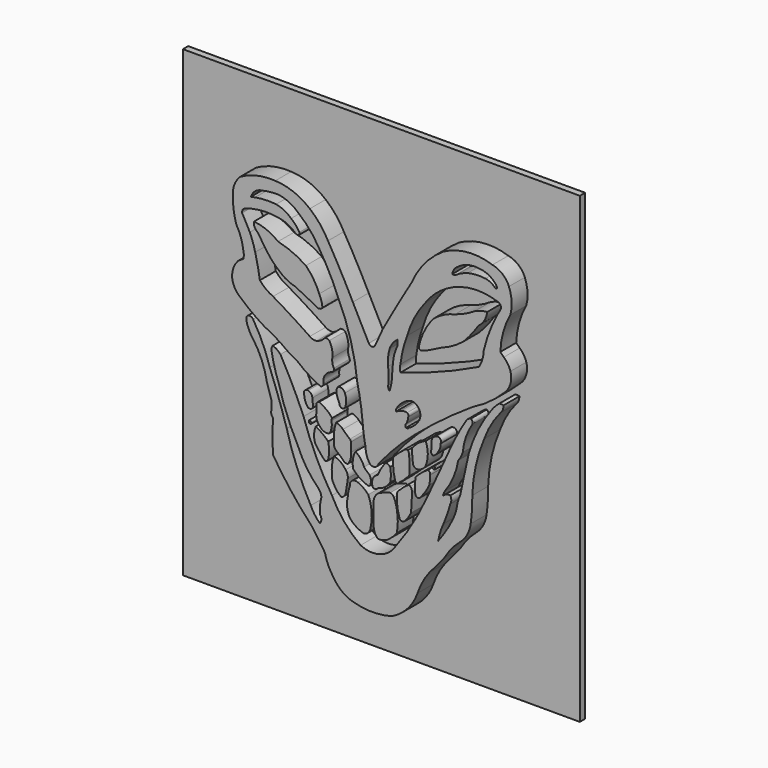
from build123d import *

# Parameters (mm, degrees)
F1_DEPTH  = 10.16
F3_DEPTH  = 10.16
F5_DEPTH  = 10.16
F7_DEPTH  = 10.16
F9_DEPTH  = 10.16
F10_W     = 152.4
F10_H     = 177.8
F11_DEPTH = 2.54


with BuildPart() as f1:
    # F0 (on Front) → F1 (new body)
    with BuildSketch(Plane.XZ):
        with BuildLine():
            ThreePointArc((-46.616811, 7.326748), (-43.414971, 1.408083), (-41.53445, -5.053033))
            ThreePointArc((-41.53445, -5.053033), (-40.690623, -7.783731), (-39.841134, -10.512672))
            ThreePointArc((-39.841134, -10.512672), (-39.629449, -12.579481), (-39.841134, -14.646289))
            ThreePointArc((-39.841134, -14.646289), (-39.701651, -15.70855), (-39.122015, -16.609592))
            ThreePointArc((-39.122015, -16.609592), (-39.341498, -22.900259), (-39.122015, -29.190926))
            ThreePointArc((-39.122015, -29.190926), (-38.026657, -30.758344), (-37.001099, -32.372296))
            ThreePointArc((-37.001099, -32.372296), (-31.045274, -40.544364), (-24.411138, -48.176061))
            ThreePointArc((-24.411138, -48.176061), (-21.734883, -51.905246), (-19.185096, -55.722017))
            ThreePointArc((-19.185096, -55.722017), (-17.924181, -59.539432), (-15.892215, -63.00839))
            ThreePointArc((-15.892215, -63.00839), (-12.616166, -66.681061), (-8.185472, -68.823479))
            ThreePointArc((-8.185472, -68.823479), (-0.899098, -69.818992), (6.387277, -68.823479))
            ThreePointArc((6.387277, -68.823479), (12.466032, -64.322554), (16.335981, -57.823855))
            ThreePointArc((16.335981, -57.823855), (18.244665, -53.387296), (20.889966, -49.34644))
            ThreePointArc((20.889966, -49.34644), (23.796187, -45.914503), (26.657285, -42.444859))
            ThreePointArc((26.657285, -42.444859), (29.349648, -38.601307), (32.612495, -35.228543))
            ThreePointArc((32.612495, -35.228543), (35.396199, -31.875562), (36.746111, -27.731985))
            ThreePointArc((36.746111, -27.731985), (37.248525, -22.858031), (37.356205, -17.959435))
            ThreePointArc((37.356205, -17.959435), (38.704285, -7.398577), (41.968558, 2.735207))
            ThreePointArc((41.968558, 2.735207), (44.59788, 8.392635), (48.200831, 13.485628))
            ThreePointArc((48.200831, 13.485628), (49.074294, 14.801159), (49.315508, 16.361728))
            ThreePointArc((49.315508, 16.361728), (48.44906, 16.556494), (47.582611, 16.361728))
            ThreePointArc((47.582611, 16.361728), (45.987344, 14.84018), (44.602081, 13.125236))
            ThreePointArc((44.602081, 13.125236), (39.526042, 4.843767), (36.018215, -4.21405))
            ThreePointArc((36.018215, -4.21405), (34.336527, -11.816835), (32.712549, -19.432155))
            ThreePointArc((32.712549, -19.432155), (31.905913, -21.467996), (31.47535, -23.61507))
            ThreePointArc((31.47535, -23.61507), (30.909487, -25.927252), (30.061407, -28.151471))
            ThreePointArc((30.061407, -28.151471), (27.43108, -32.993235), (24.287807, -37.518844))
            ThreePointArc((24.287807, -37.518844), (25.071217, -34.270518), (26.289392, -31.159023))
            ThreePointArc((26.289392, -31.159023), (27.715604, -27.428171), (28.916443, -23.618799))
            ThreePointArc((28.916443, -23.618799), (29.302992, -22.158041), (28.916443, -20.697283))
            ThreePointArc((28.916443, -20.697283), (27.276139, -20.920357), (25.968764, -21.935804))
            ThreePointArc((25.968764, -21.935804), (26.352772, -20.881558), (26.84702, -19.874277))
            ThreePointArc((26.84702, -19.874277), (30.119019, -14.189168), (31.961493, -7.893794))
            ThreePointArc((31.961493, -7.893794), (32.986264, -6.289929), (33.713028, -4.530852))
            ThreePointArc((33.713028, -4.530852), (34.93871, 1.09739), (37.496336, 6.258588))
            ThreePointArc((37.496336, 6.258588), (37.393004, 7.141522), (36.795724, 7.799936))
            ThreePointArc((36.795724, 7.799936), (35.632934, 7.260812), (34.834009, 6.258588))
            ThreePointArc((34.834009, 6.258588), (31.934709, 1.274117), (29.352581, -3.881804))
            ThreePointArc((29.352581, -3.881804), (24.575526, -14.34699), (19.756366, -24.792854))
            ThreePointArc((19.756366, -24.792854), (14.210558, -35.365791), (7.528531, -45.259904))
            ThreePointArc((7.528531, -45.259904), (1.64577, -49.415981), (-5.523933, -48.726629))
            ThreePointArc((-5.523933, -48.726629), (-11.844614, -42.76878), (-16.521996, -35.449691))
            ThreePointArc((-16.521996, -35.449691), (-22.665055, -24.21065), (-27.398281, -12.308978))
            ThreePointArc((-27.398281, -12.308978), (-31.596418, -3.141189), (-36.293756, 5.781127))
            ThreePointArc((-36.293756, 5.781127), (-37.622609, 6.979402), (-39.216664, 7.792238))
            ThreePointArc((-39.216664, 7.792238), (-39.69417, 6.843238), (-39.671052, 5.781127))
            ThreePointArc((-39.671052, 5.781127), (-38.604466, 0.888574), (-37.078824, -3.880818))
            ThreePointArc((-37.078824, -3.880818), (-33.771529, -13.844329), (-29.37901, -23.379292))
            ThreePointArc((-29.37901, -23.379292), (-26.335147, -29.12476), (-22.245131, -34.179192))
            ThreePointArc((-22.245131, -34.179192), (-21.095668, -35.599902), (-20.568867, -37.349805))
            ThreePointArc((-20.568867, -37.349805), (-21.095959, -40.299182), (-21.155234, -43.294702))
            ThreePointArc((-21.155234, -43.294702), (-20.568867, -44.82571), (-21.155234, -46.356719))
            ThreePointArc((-21.155234, -46.356719), (-23.161061, -44.106117), (-24.640854, -41.479569))
            ThreePointArc((-24.640854, -41.479569), (-29.974169, -30.279418), (-33.869248, -18.501643))
            ThreePointArc((-33.869248, -18.501643), (-36.947498, -9.190712), (-40.368006, 0))
            ThreePointArc((-40.368006, 0), (-43.098874, 7.335847), (-46.783447, 14.242091))
            ThreePointArc((-46.783447, 14.242091), (-48.074866, 14.95961), (-49.366284, 14.242091))
            ThreePointArc((-49.366284, 14.242091), (-49.179819, 12.2608), (-48.449792, 10.409491))
            ThreePointArc((-48.449792, 10.409491), (-47.674818, 8.783975), (-46.616811, 7.326748))
        make_face()
    extrude(amount=F1_DEPTH)


with BuildPart() as f3:
    # F2 (on Front) → F3 (new body)
    with BuildSketch(Plane.XZ):
        with BuildLine():
            ThreePointArc((-23.810601, -7.260321), (-23.95032, -6.113737), (-24.046259, -4.962664))
            ThreePointArc((-24.046259, -4.962664), (-24.523351, -3.708392), (-25.636945, -2.959578))
            ThreePointArc((-25.636945, -2.959578), (-27.006112, -3.45635), (-27.168715, -4.903749))
            ThreePointArc((-27.168715, -4.903749), (-26.718324, -6.972207), (-25.636945, -8.792093))
            ThreePointArc((-25.636945, -8.792093), (-24.225938, -8.61978), (-23.810601, -7.260321))
        make_face()
        with BuildLine():
            ThreePointArc((-16.713239, -10.322983), (-16.635475, -9.78762), (-16.418668, -9.291983))
            ThreePointArc((-16.418668, -9.291983), (-18.706958, -7.086722), (-21.455839, -5.492011))
            ThreePointArc((-21.455839, -5.492011), (-22.191305, -5.854334), (-22.422816, -6.64084))
            ThreePointArc((-22.422816, -6.64084), (-22.525091, -7.892769), (-22.422816, -9.144697))
            ThreePointArc((-22.422816, -9.144697), (-22.372357, -11.555011), (-21.13181, -13.622183))
            ThreePointArc((-21.13181, -13.622183), (-19.547393, -14.857954), (-17.538039, -14.859384))
            ThreePointArc((-17.538039, -14.859384), (-16.660454, -12.675763), (-16.713239, -10.322983))
        make_face()
        with BuildLine():
            ThreePointArc((-11.54621, 0.750697), (-12.568938, 1.925524), (-14.122333, 2.040219))
            ThreePointArc((-14.122333, 2.040219), (-14.742571, 0.852946), (-14.766364, -0.486363))
            ThreePointArc((-14.766364, -0.486363), (-14.266206, -2.047933), (-13.626925, -3.557893))
            ThreePointArc((-13.626925, -3.557893), (-12.87375, -4.703389), (-11.54621, -4.361233))
            ThreePointArc((-11.54621, -4.361233), (-11.054436, -1.805268), (-11.54621, 0.750697))
        make_face()
        with BuildLine():
            ThreePointArc((-9.635364, -14.211565), (-10.986316, -13.021796), (-12.303531, -11.794781))
            ThreePointArc((-12.303531, -11.794781), (-13.478395, -10.823535), (-14.925217, -10.343609))
            ThreePointArc((-14.925217, -10.343609), (-15.731899, -13.993009), (-15.705908, -17.730413))
            ThreePointArc((-15.705908, -17.730413), (-15.563664, -18.827141), (-14.925217, -19.730153))
            ThreePointArc((-14.925217, -19.730153), (-13.450856, -20.985244), (-12.050516, -22.32242))
            ThreePointArc((-12.050516, -22.32242), (-11.298697, -22.817845), (-10.398827, -22.787647))
            ThreePointArc((-10.398827, -22.787647), (-9.382345, -20.816292), (-9.274041, -18.600948))
            ThreePointArc((-9.274041, -18.600948), (-9.252902, -16.843673), (-9.274041, -15.086398))
            ThreePointArc((-9.274041, -15.086398), (-9.337758, -14.600681), (-9.635364, -14.211565))
        make_face()
        with BuildLine():
            ThreePointArc((-17.967103, -23.834724), (-17.601376, -20.782568), (-17.967103, -17.730413))
            ThreePointArc((-17.967103, -17.730413), (-20.190948, -15.737459), (-22.757852, -14.211565))
            ThreePointArc((-22.757852, -14.211565), (-23.366999, -16.946375), (-23.049464, -19.730153))
            ThreePointArc((-23.049464, -19.730153), (-21.305801, -22.238573), (-19.300181, -24.542922))
            ThreePointArc((-19.300181, -24.542922), (-18.459389, -24.516829), (-17.967103, -23.834724))
        make_face()
        with BuildLine():
            ThreePointArc((-24.649439, -14.006637), (-24.479287, -13.732363), (-24.448013, -13.411116))
            ThreePointArc((-24.448013, -13.411116), (-24.752532, -12.961687), (-25.288749, -12.876899))
            ThreePointArc((-25.288749, -12.876899), (-25.417721, -13.31175), (-25.279991, -13.743907))
            ThreePointArc((-25.279991, -13.743907), (-25.014138, -13.993886), (-24.649439, -14.006637))
        make_face()
        with BuildLine():
            ThreePointArc((-11.278415, -25.120154), (-13.173023, -23.091111), (-15.705908, -21.954867))
            ThreePointArc((-15.705908, -21.954867), (-16.484132, -25.132295), (-16.52251, -28.403413))
            ThreePointArc((-16.52251, -28.403413), (-16.39663, -30.031382), (-15.705908, -31.510919))
            ThreePointArc((-15.705908, -31.510919), (-14.524117, -33.351033), (-12.913262, -34.830153))
            ThreePointArc((-12.913262, -34.830153), (-11.872218, -34.17403), (-11.278415, -33.096224))
            ThreePointArc((-11.278415, -33.096224), (-10.807505, -30.383716), (-10.398827, -27.661137))
            ThreePointArc((-10.398827, -27.661137), (-10.593774, -26.305889), (-11.278415, -25.120154))
        make_face()
        with BuildLine():
            ThreePointArc((-2.069898, -23.834724), (-3.190877, -22.910191), (-4.200154, -21.864861))
            ThreePointArc((-4.200154, -21.864861), (-5.474877, -19.488635), (-7.519388, -17.730413))
            ThreePointArc((-7.519388, -17.730413), (-8.472035, -20.709232), (-8.361582, -23.834724))
            ThreePointArc((-8.361582, -23.834724), (-5.751909, -26.184899), (-2.565306, -27.661137))
            ThreePointArc((-2.565306, -27.661137), (-1.952161, -27.396649), (-1.723112, -26.769403))
            ThreePointArc((-1.723112, -26.769403), (-1.58463, -25.26521), (-2.069898, -23.834724))
        make_face()
        with BuildLine():
            ThreePointArc((-2.565306, -30.642418), (-4.355775, -29.02894), (-6.463438, -27.859821))
            ThreePointArc((-6.463438, -27.859821), (-8.777094, -27.998917), (-9.635364, -30.151989))
            ThreePointArc((-9.635364, -30.151989), (-10.186757, -31.973731), (-10.398827, -33.865239))
            ThreePointArc((-10.398827, -33.865239), (-10.688488, -37.441465), (-9.635364, -40.871367))
            ThreePointArc((-9.635364, -40.871367), (-7.183965, -43.035935), (-4.200154, -44.374432))
            ThreePointArc((-4.200154, -44.374432), (-2.500173, -43.426573), (-1.723112, -41.642044))
            ThreePointArc((-1.723112, -41.642044), (-1.272645, -36.075499), (-2.565306, -30.642418))
        make_face()
        with BuildLine():
            ThreePointArc((5.844937, -27.286772), (4.118743, -27.733844), (2.466079, -28.403413))
            ThreePointArc((2.466079, -28.403413), (0.462002, -29.734239), (-0.490115, -31.943515))
            ThreePointArc((-0.490115, -31.943515), (-0.675486, -36.032153), (-0.490115, -40.120792))
            ThreePointArc((-0.490115, -40.120792), (-0.163239, -42.425445), (1.109444, -44.374432))
            ThreePointArc((1.109444, -44.374432), (3.66202, -44.043642), (5.844937, -42.679846))
            ThreePointArc((5.844937, -42.679846), (7.196454, -41.490845), (8.364048, -40.120792))
            ThreePointArc((8.364048, -40.120792), (8.755528, -37.015291), (8.600593, -33.889049))
            ThreePointArc((8.600593, -33.889049), (8.201929, -31.08289), (7.27788, -28.403413))
            ThreePointArc((7.27788, -28.403413), (6.707481, -27.657643), (5.844937, -27.286772))
        make_face()
        with BuildLine():
            ThreePointArc((4.180975, -17.730413), (2.423605, -20.124438), (1.109444, -22.787647))
            ThreePointArc((1.109444, -22.787647), (0.006275, -23.491651), (-0.773106, -24.542922))
            ThreePointArc((-0.773106, -24.542922), (-1.125744, -26.216519), (-0.651572, -27.859821))
            ThreePointArc((-0.651572, -27.859821), (0.311152, -27.825951), (1.109444, -27.286772))
            ThreePointArc((1.109444, -27.286772), (3.818524, -26.028986), (5.844937, -23.834724))
            ThreePointArc((5.844937, -23.834724), (6.090244, -21.217836), (5.844937, -18.600948))
            ThreePointArc((5.844937, -18.600948), (5.10663, -17.986631), (4.180975, -17.730413))
        make_face()
        with BuildLine():
            ThreePointArc((10.955352, -23.801824), (10.377715, -24.333135), (9.831075, -24.896286))
            ThreePointArc((9.831075, -24.896286), (8.889597, -25.766056), (8.364048, -26.935105))
            ThreePointArc((8.364048, -26.935105), (8.574286, -30.927057), (9.437837, -34.830153))
            ThreePointArc((9.437837, -34.830153), (10.416789, -35.465048), (11.492074, -35.012059))
            ThreePointArc((11.492074, -35.012059), (12.798406, -33.355508), (13.822199, -31.510919))
            ThreePointArc((13.822199, -31.510919), (14.061139, -28.02988), (14.187039, -24.542922))
            ThreePointArc((14.187039, -24.542922), (14.091513, -23.513221), (13.57985, -22.61455))
            ThreePointArc((13.57985, -22.61455), (13.09036, -22.413813), (12.600871, -22.61455))
            ThreePointArc((12.600871, -22.61455), (11.722315, -23.130855), (10.955352, -23.801824))
        make_face()
        with BuildLine():
            ThreePointArc((10.955352, -11.299484), (8.873171, -13.016886), (6.996622, -14.956862))
            ThreePointArc((6.996622, -14.956862), (7.037665, -18.820356), (7.767296, -22.61455))
            ThreePointArc((7.767296, -22.61455), (8.573001, -23.255719), (9.378706, -22.61455))
            ThreePointArc((9.378706, -22.61455), (10.690149, -21.595056), (11.865882, -20.421643))
            ThreePointArc((11.865882, -20.421643), (12.50473, -19.888302), (13.126986, -19.335693))
            ThreePointArc((13.126986, -19.335693), (13.372671, -16.007781), (13.126986, -12.679869))
            ThreePointArc((13.126986, -12.679869), (13.052196, -11.647623), (12.600871, -10.716262))
            ThreePointArc((12.600871, -10.716262), (11.686704, -10.749974), (10.955352, -11.299484))
        make_face()
        with BuildLine():
            ThreePointArc((20.266585, -14.909432), (17.807242, -16.660428), (15.641181, -18.76341))
            ThreePointArc((15.641181, -18.76341), (15.319981, -21.580037), (15.467788, -24.411064))
            ThreePointArc((15.467788, -24.411064), (15.821237, -25.189375), (16.52771, -25.670612))
            ThreePointArc((16.52771, -25.670612), (17.466819, -25.098751), (18.113017, -24.209157))
            ThreePointArc((18.113017, -24.209157), (19.655649, -22.079902), (20.855729, -19.740405))
            ThreePointArc((20.855729, -19.740405), (21.10362, -18.070453), (21.120843, -16.38229))
            ThreePointArc((21.120843, -16.38229), (21.069674, -15.427804), (20.266585, -14.909432))
        make_face()
        with BuildLine():
            ThreePointArc((19.49119, -13.724447), (20.284871, -9.538248), (19.49119, -5.352049))
            ThreePointArc((19.49119, -5.352049), (16.608692, -7.022631), (14.289403, -9.414396))
            ThreePointArc((14.289403, -9.414396), (14.304265, -11.822744), (14.537108, -14.219856))
            ThreePointArc((14.537108, -14.219856), (14.944215, -15.362307), (15.973791, -16.003326))
            ThreePointArc((15.973791, -16.003326), (18.010249, -15.2926), (19.49119, -13.724447))
        make_face()
        with BuildLine():
            ThreePointArc((25.188385, -4.361233), (25.143596, -2.916268), (23.801241, -2.3796))
            ThreePointArc((23.801241, -2.3796), (22.297603, -3.305047), (21.670986, -4.955723))
            ThreePointArc((21.670986, -4.955723), (21.703799, -6.268554), (21.670986, -7.581386))
            ThreePointArc((21.670986, -7.581386), (21.572822, -8.575996), (22.116853, -9.414396))
            ThreePointArc((22.116853, -9.414396), (23.337268, -8.724862), (24.148026, -7.581386))
            ThreePointArc((24.148026, -7.581386), (24.976808, -6.071012), (25.188385, -4.361233))
        make_face()
        with BuildLine():
            ThreePointArc((22.598976, -12.860881), (22.40402, -13.058777), (22.351271, -13.331519))
            ThreePointArc((22.351271, -13.331519), (22.181198, -13.396517), (22.116853, -13.566838))
            ThreePointArc((22.116853, -13.566838), (22.175502, -13.745558), (22.338569, -13.839312))
            ThreePointArc((22.338569, -13.839312), (22.689963, -13.947274), (23.041357, -13.839312))
            ThreePointArc((23.041357, -13.839312), (23.109927, -13.480141), (23.041357, -13.120971))
            ThreePointArc((23.041357, -13.120971), (22.895207, -12.863291), (22.598976, -12.860881))
        make_face()
    extrude(amount=F3_DEPTH)


with BuildPart() as f5:
    # F4 (on Front) → F5 (new body)
    with BuildSketch(Plane.XZ):
        with BuildLine():
            ThreePointArc((-33.577297, 7.798562), (-31.830519, 6.671585), (-29.980671, 5.723235))
            ThreePointArc((-29.980671, 5.723235), (-25.689435, 2.534743), (-20.98239, 0))
            ThreePointArc((-20.98239, 0), (-20.092174, 0.415783), (-19.796997, 1.352922))
            ThreePointArc((-19.796997, 1.352922), (-19.228131, 4.196907), (-16.994545, 6.047029))
            ThreePointArc((-16.994545, 6.047029), (-15.985729, 6.641754), (-15.803503, 7.798562))
            ThreePointArc((-15.803503, 7.798562), (-16.360814, 9.442114), (-16.369015, 11.177565))
            ThreePointArc((-16.369015, 11.177565), (-16.501823, 13.963162), (-17.536847, 16.552741))
            ThreePointArc((-17.536847, 16.552741), (-18.356108, 16.942169), (-19.261681, 16.889442))
            ThreePointArc((-19.261681, 16.889442), (-20.693971, 15.579053), (-22.470962, 14.797465))
            ThreePointArc((-22.470962, 14.797465), (-23.800809, 14.932438), (-25.007609, 15.507191))
            ThreePointArc((-25.007609, 15.507191), (-31.99114, 20.086255), (-39.126743, 24.42454))
            ThreePointArc((-39.126743, 24.42454), (-41.864056, 26.062612), (-44.178359, 28.258098))
            ThreePointArc((-44.178359, 28.258098), (-44.98208, 32.719238), (-45.983713, 37.14015))
            ThreePointArc((-45.983713, 37.14015), (-46.86454, 40.238894), (-48.04761, 43.235295))
            ThreePointArc((-48.04761, 43.235295), (-49.479269, 46.026179), (-50.993323, 48.773237))
            ThreePointArc((-50.993323, 48.773237), (-50.766009, 49.942009), (-49.815036, 50.658494))
            ThreePointArc((-49.815036, 50.658494), (-43.401841, 52.031181), (-36.853895, 51.660039))
            ThreePointArc((-36.853895, 51.660039), (-33.571901, 50.680284), (-30.726805, 48.773237))
            ThreePointArc((-30.726805, 48.773237), (-30.097961, 48.353823), (-29.344518, 48.293184))
            ThreePointArc((-29.344518, 48.293184), (-29.000431, 48.792784), (-29.052908, 49.397137))
            ThreePointArc((-29.052908, 49.397137), (-30.430811, 51.381134), (-32.188147, 53.038429))
            ThreePointArc((-32.188147, 53.038429), (-34.854702, 54.913844), (-37.937049, 55.975366))
            ThreePointArc((-37.937049, 55.975366), (-41.9711, 56.109697), (-45.983713, 55.673186))
            ThreePointArc((-45.983713, 55.673186), (-46.788114, 55.504433), (-47.600791, 55.381577))
            ThreePointArc((-47.600791, 55.381577), (-45.979003, 57.766748), (-43.309946, 58.860078))
            ThreePointArc((-43.309946, 58.860078), (-40.104323, 59.406536), (-36.853895, 59.50325))
            ThreePointArc((-36.853895, 59.50325), (-32.851524, 58.238727), (-29.422982, 55.817347))
            ThreePointArc((-29.422982, 55.817347), (-25.266821, 51.842862), (-21.898925, 47.181588))
            ThreePointArc((-21.898925, 47.181588), (-17.575294, 39.68257), (-13.958272, 31.818334))
            ThreePointArc((-13.958272, 31.818334), (-9.289748, 19.235203), (-6.800537, 6.046793))
            ThreePointArc((-6.800537, 6.046793), (-5.58557, -0.189252), (-4.77694, -6.49088))
            ThreePointArc((-4.77694, -6.49088), (-4.334417, -10.772595), (-3.58796, -15.011901))
            ThreePointArc((-3.58796, -15.011901), (-3.122312, -17.782273), (-1.804491, -20.263227))
            ThreePointArc((-1.804491, -20.263227), (0.092232, -20.43732), (1.326836, -18.986935))
            ThreePointArc((1.326836, -18.986935), (7.940292, -11.467256), (15.247806, -4.620098))
            ThreePointArc((15.247806, -4.620098), (26.089974, 4.053449), (37.479948, 11.993947))
            ThreePointArc((37.479948, 11.993947), (44.096808, 16.019434), (49.954318, 21.086678))
            ThreePointArc((49.954318, 21.086678), (52.030725, 24.656882), (52.013531, 28.786957))
            ThreePointArc((52.013531, 28.786957), (50.995458, 30.920333), (49.470048, 32.726128))
            ThreePointArc((49.470048, 32.726128), (48.763115, 33.356797), (48.132446, 34.06373))
            ThreePointArc((48.132446, 34.06373), (49.246898, 41.213782), (52.013531, 47.900409))
            ThreePointArc((52.013531, 47.900409), (52.449221, 52.613527), (51.426195, 57.234861))
            ThreePointArc((51.426195, 57.234861), (48.934834, 60.677782), (45.089521, 62.487245))
            ThreePointArc((45.089521, 62.487245), (35.435875, 63.646658), (26.148733, 60.768098))
            ThreePointArc((26.148733, 60.768098), (19.080059, 54.528285), (14.124616, 46.506751))
            ThreePointArc((14.124616, 46.506751), (8.43329, 36.781042), (2.9309, 26.947206))
            ThreePointArc((2.9309, 26.947206), (1.492464, 23.753392), (0, 20.584464))
            ThreePointArc((0, 20.584464), (-1.185693, 19.820209), (-2.371386, 20.584464))
            ThreePointArc((-2.371386, 20.584464), (-5.4462, 26.522207), (-8.490247, 32.475781))
            ThreePointArc((-8.490247, 32.475781), (-13.112363, 41.361434), (-18.036721, 50.083216))
            ThreePointArc((-18.036721, 50.083216), (-21.096144, 54.722502), (-25.012275, 58.665466))
            ThreePointArc((-25.012275, 58.665466), (-31.212391, 62.334468), (-38.267992, 63.791007))
            ThreePointArc((-38.267992, 63.791007), (-45.221855, 63.282785), (-51.724996, 60.768098))
            ThreePointArc((-51.724996, 60.768098), (-54.06501, 57.110463), (-54.501384, 52.790333))
            ThreePointArc((-54.501384, 52.790333), (-54.204502, 48.334228), (-53.164501, 43.991026))
            ThreePointArc((-53.164501, 43.991026), (-51.427767, 40.296899), (-50.557259, 36.308788))
            ThreePointArc((-50.557259, 36.308788), (-50.334464, 34.813894), (-50.557259, 33.319))
            ThreePointArc((-50.557259, 33.319), (-51.593478, 32.758269), (-52.549202, 32.06924))
            ThreePointArc((-52.549202, 32.06924), (-54.318403, 29.154039), (-54.828074, 25.782287))
            ThreePointArc((-54.828074, 25.782287), (-53.880201, 22.604505), (-51.724996, 20.084215))
            ThreePointArc((-51.724996, 20.084215), (-47.258545, 16.408863), (-42.447016, 13.198476))
            ThreePointArc((-42.447016, 13.198476), (-37.864898, 10.7404), (-33.577297, 7.798562))
        make_face()
    extrude(amount=F5_DEPTH)

    # F6 (on Front) → F7 (cut)
    with BuildSketch(Plane.XZ):
        with BuildLine():
            ThreePointArc((6.895083, 16.682304), (7.428214, 20.010665), (8.600492, 23.171041))
            ThreePointArc((8.600492, 23.171041), (8.66925, 24.264198), (8.600492, 25.357354))
            ThreePointArc((8.600492, 25.357354), (6.796473, 23.565403), (5.62918, 21.30642))
            ThreePointArc((5.62918, 21.30642), (5.038501, 18.292123), (5.083658, 15.220829))
            ThreePointArc((5.083658, 15.220829), (5.138242, 11.669779), (5.083658, 8.118729))
            ThreePointArc((5.083658, 8.118729), (5.257329, 7.552245), (5.62918, 7.090951))
            ThreePointArc((5.62918, 7.090951), (6.301204, 9.7787), (6.555425, 12.537501))
            ThreePointArc((6.555425, 12.537501), (6.70887, 14.611245), (6.895083, 16.682304))
        make_face()
        with BuildLine():
            ThreePointArc((16.98433, 4.482063), (15.680129, 5.89678), (13.823209, 6.400978))
            ThreePointArc((13.823209, 6.400978), (10.470396, 4.626513), (8.080207, 1.680824))
            ThreePointArc((8.080207, 1.680824), (7.983899, 1.310055), (8.184467, 0.983685))
            ThreePointArc((8.184467, 0.983685), (8.984332, 1.308577), (9.782409, 1.637839))
            ThreePointArc((9.782409, 1.637839), (11.035197, 1.982451), (12.329202, 1.865042))
            ThreePointArc((12.329202, 1.865042), (12.837363, 1.300692), (12.775725, 0.543778))
            ThreePointArc((12.775725, 0.543778), (12.557535, -0.629976), (12.141926, -1.749161))
            ThreePointArc((12.141926, -1.749161), (11.712619, -2.516149), (11.883419, -3.378356))
            ThreePointArc((11.883419, -3.378356), (12.585539, -3.328187), (13.166233, -2.930338))
            ThreePointArc((13.166233, -2.930338), (15.346818, -1.341748), (16.98433, 0.802342))
            ThreePointArc((16.98433, 0.802342), (17.423637, 2.642203), (16.98433, 4.482063))
        make_face()
        with BuildLine():
            ThreePointArc((9.782409, 17.450158), (9.570098, 16.026158), (9.782409, 14.602159))
            ThreePointArc((9.782409, 14.602159), (25.097331, 19.845413), (39.929502, 26.329642))
            ThreePointArc((39.929502, 26.329642), (41.227439, 29.267105), (41.75372, 32.435127))
            ThreePointArc((41.75372, 32.435127), (43.98491, 39.70531), (47.184646, 46.604257))
            ThreePointArc((47.184646, 46.604257), (47.806109, 47.663173), (48.346877, 48.765484))
            ThreePointArc((48.346877, 48.765484), (48.12916, 49.942086), (47.184646, 50.676718))
            ThreePointArc((47.184646, 50.676718), (41.280789, 51.917091), (35.254702, 51.633678))
            ThreePointArc((35.254702, 51.633678), (26.364112, 48.076804), (19.440565, 41.461788))
            ThreePointArc((19.440565, 41.461788), (15.211531, 35.018147), (12.329202, 27.869901))
            ThreePointArc((12.329202, 27.869901), (10.742488, 22.73661), (9.782409, 17.450158))
        make_face()
        with BuildLine():
            ThreePointArc((40.414914, 59.567407), (35.759498, 59.401159), (31.570066, 57.364199))
            ThreePointArc((31.570066, 57.364199), (30.310373, 56.083562), (29.703271, 54.392915))
            ThreePointArc((29.703271, 54.392915), (30.454984, 54.319655), (31.163838, 54.580357))
            ThreePointArc((31.163838, 54.580357), (33.298822, 55.784323), (35.599455, 56.62977))
            ThreePointArc((35.599455, 56.62977), (39.001836, 57.128311), (42.437591, 56.98574))
            ThreePointArc((42.437591, 56.98574), (44.3118, 56.379294), (45.919009, 55.240296))
            ThreePointArc((45.919009, 55.240296), (46.432545, 54.916612), (46.946082, 55.240296))
            ThreePointArc((46.946082, 55.240296), (46.4857, 56.184799), (45.805603, 56.98574))
            ThreePointArc((45.805603, 56.98574), (43.335864, 58.747652), (40.414914, 59.567407))
        make_face()
    extrude(amount=F7_DEPTH, mode=Mode.SUBTRACT)


with BuildPart() as f9:
    # F8 (on Front) → F9 (new body)
    with BuildSketch(Plane.XZ):
        with BuildLine():
            ThreePointArc((-26.528319, 38.953673), (-31.654547, 41.778384), (-37.21337, 43.610509))
            ThreePointArc((-37.21337, 43.610509), (-41.542796, 46.173115), (-46.427965, 47.375612))
            ThreePointArc((-46.427965, 47.375612), (-46.225115, 45.623169), (-45.128398, 44.241354))
            ThreePointArc((-45.128398, 44.241354), (-43.305213, 41.615973), (-41.536376, 38.953673))
            ThreePointArc((-41.536376, 38.953673), (-38.841457, 35.737861), (-35.689242, 32.968823))
            ThreePointArc((-35.689242, 32.968823), (-33.215451, 31.437526), (-30.461598, 30.499011))
            ThreePointArc((-30.461598, 30.499011), (-26.729998, 28.589006), (-22.963034, 26.749728))
            ThreePointArc((-22.963034, 26.749728), (-21.567468, 26.068294), (-20.171901, 26.749728))
            ThreePointArc((-20.171901, 26.749728), (-20.553352, 28.967706), (-21.425419, 31.042418))
            ThreePointArc((-21.425419, 31.042418), (-23.539216, 35.280339), (-26.528319, 38.953673))
        make_face()
        with BuildLine():
            ThreePointArc((30.724479, 41.098997), (26.425238, 39.529321), (22.584457, 37.040193))
            ThreePointArc((22.584457, 37.040193), (18.96649, 31.705209), (16.83943, 25.6202))
            ThreePointArc((16.83943, 25.6202), (16.972507, 25.008928), (17.487146, 24.653247))
            ThreePointArc((17.487146, 24.653247), (18.982929, 25.085032), (20.444915, 25.6202))
            ThreePointArc((20.444915, 25.6202), (22.977422, 26.850197), (25.481107, 28.137852))
            ThreePointArc((25.481107, 28.137852), (29.934726, 30.181412), (33.964764, 32.968823))
            ThreePointArc((33.964764, 32.968823), (37.026847, 36.452399), (39.738368, 40.215284))
            ThreePointArc((39.738368, 40.215284), (42.011716, 42.723404), (43.096483, 45.929968))
            ThreePointArc((43.096483, 45.929968), (40.650172, 45.503855), (38.324423, 44.633854))
            ThreePointArc((38.324423, 44.633854), (34.649502, 42.597567), (30.724479, 41.098997))
        make_face()
    extrude(amount=F9_DEPTH)


with BuildPart() as f11:
    # F10 (on Front) → F11 (new body)
    with BuildSketch(Plane.XZ):
        with Locations((-3.643189, 2.766511)):
            Rectangle(F10_W, F10_H)
    extrude(amount=F11_DEPTH)


solid = Compound([f1.part, f3.part, f5.part, f9.part, f11.part])
